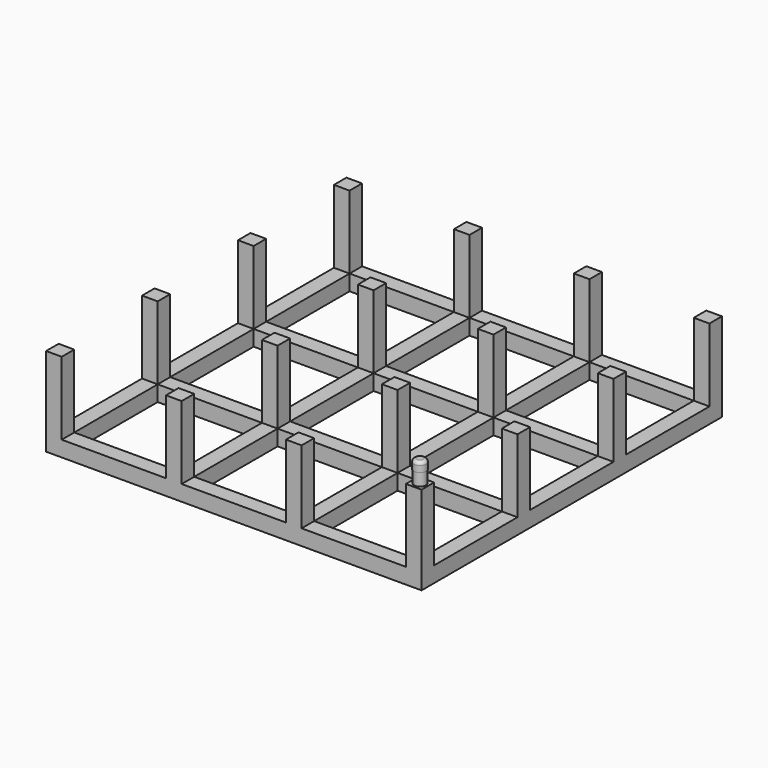
from build123d import *

# Parameters (mm, degrees)
F0_W      = 152.4
F0_H      = 152.4
F1_DEPTH  = 35.9833333333
F2_W      = 42.3333333333
F2_H      = 29.6333333333
F3_DEPTH  = 396.24
F4_W      = 42.3333333333
F4_H      = 29.6333333333
F5_DEPTH  = 206.248
F6_W      = 42.3333333333
F6_H      = 42.3333333333
F7_DEPTH  = 25.4
F8_R      = 2.413
F9_DEPTH  = 5.08
F10_R     = 2.54
F11_DEPTH = 3.81
F12_R     = 1.27


with BuildPart() as f1:
    # F0 (on Top) → F1 (new body)
    with BuildSketch(Plane.XY):
        with Locations((76.2, 76.2)):
            Rectangle(F0_W, F0_H)
    extrude(amount=F1_DEPTH)

    # F2 (on face) → F3 (cut)
    with BuildSketch(Plane.XZ):
        with Locations((27.5166666667, 21.1666666667)):
            Rectangle(F2_W, F2_H)
        with Locations((76.2, 21.1666666667)):
            Rectangle(F2_W, F2_H)
        with Locations((124.8833333333, 21.1666666667)):
            Rectangle(F2_W, F2_H)
    extrude(amount=-F3_DEPTH, mode=Mode.SUBTRACT)

    # F4 (on face) → F5 (cut)
    with BuildSketch(Plane.YZ.offset(152.4)):
        with Locations((27.5166666667, 21.1666666667)):
            Rectangle(F4_W, F4_H)
        with Locations((76.2, 21.1666666667)):
            Rectangle(F4_W, F4_H)
        with Locations((124.8833333333, 21.1666666667)):
            Rectangle(F4_W, F4_H)
    extrude(amount=-F5_DEPTH, mode=Mode.SUBTRACT)

    # F6 (on face) → F7 (cut)
    with BuildSketch(Plane.XY.offset(6.35)):
        with Locations((27.5166666667, 124.8833333333)):
            Rectangle(F6_W, F6_H)
        with Locations((76.2, 124.8833333333)):
            Rectangle(F6_W, F6_H)
        with Locations((124.8833333333, 124.8833333333)):
            Rectangle(F6_W, F6_H)
        with Locations((27.5166666667, 76.2)):
            Rectangle(F6_W, F6_H)
        with Locations((76.2, 76.2)):
            Rectangle(F6_W, F6_H)
        with Locations((124.8833333333, 76.2)):
            Rectangle(F6_W, F6_H)
        with Locations((27.5166666667, 27.5166666667)):
            Rectangle(F6_W, F6_H)
        with Locations((76.2, 27.5166666667)):
            Rectangle(F6_W, F6_H)
        with Locations((124.8833333333, 27.5166666667)):
            Rectangle(F6_W, F6_H)
    extrude(amount=-F7_DEPTH, mode=Mode.SUBTRACT)

    # F8 (on face) → F9 (join)
    with BuildSketch(Plane.XY.offset(35.9833333333)):
        with Locations((149.225, 3.175)):
            Circle(F8_R)
    extrude(amount=F9_DEPTH)

    # F10 (on face) → F11 (join)
    with BuildSketch(Plane.XY.offset(41.0633333333)):
        with Locations((149.225, 3.175)):
            Circle(F10_R)
    extrude(amount=F11_DEPTH)

    # F12
    f12_edges = [f1.edges().sort_by_distance(p)[0] for p in [
        (146.685, 3.175, 44.873333),
    ]]
    fillet(f12_edges, radius=F12_R)


solid = f1.part
